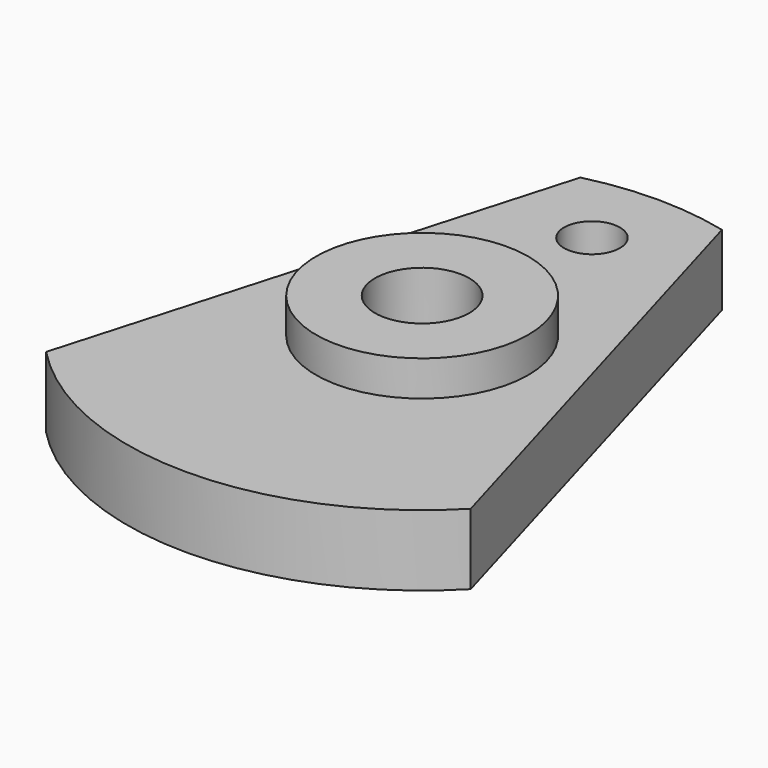
from build123d import *

# Parameters (mm, degrees)
F0_R     = 4.5
F0_R_2   = 1.185
F1_DEPTH = 3
F0_R_3   = 2
F2_DEPTH = 4.5


with BuildPart() as f1:
    # F0 (on Top) → F1 (new body)
    with BuildSketch(Plane.XY):
        with BuildLine():
            Line((9, -8.674676), (3, 12.134661))
            ThreePointArc((3, 12.134661), (0, 12.5), (-3, 12.134661))
            Line((-3, 12.134661), (-9, -8.674676))
            ThreePointArc((-9, -8.674676), (0, -12.5), (9, -8.674676))
        make_face()
        Circle(F0_R, mode=Mode.SUBTRACT)
        with Locations((0, 9)):
            Circle(F0_R_2, mode=Mode.SUBTRACT)
    extrude(amount=F1_DEPTH)

    # F0 (on Top) → F2 (join)
    with BuildSketch(Plane.XY):
        Circle(F0_R)
        Circle(F0_R_3, mode=Mode.SUBTRACT)
    extrude(amount=F2_DEPTH)


solid = f1.part
